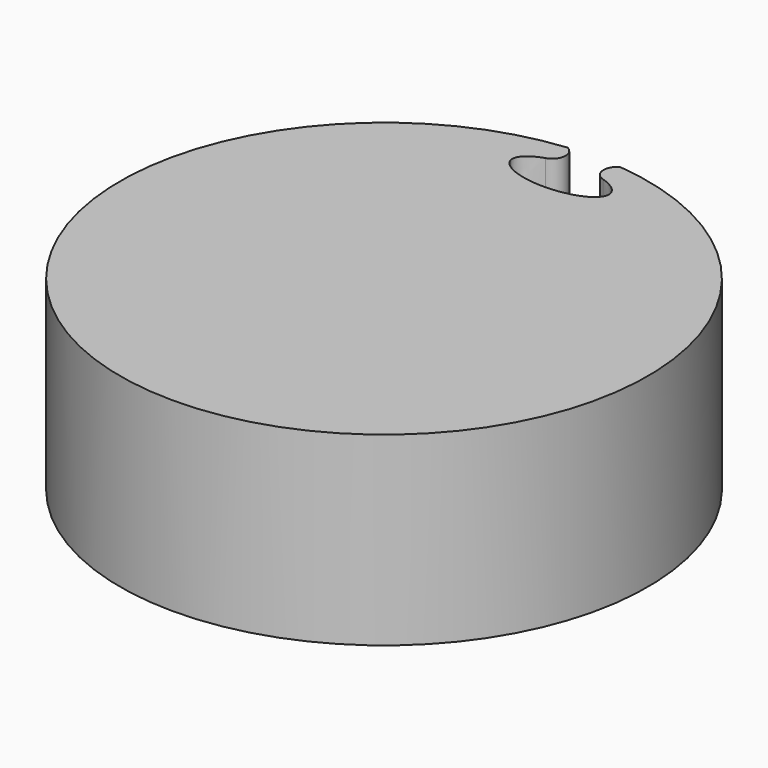
from build123d import *

# Parameters (mm, degrees)
F1_DEPTH = 53.594


with BuildPart() as f1:
    # F0 (on Top) → F1 (new body)
    with BuildSketch(Plane.XY):
        with BuildLine():
            ThreePointArc((-8.3332061768, 68.7127187848), (-5.5084893663, 72.017640605), (-7.62, 75.8180427075))
            ThreePointArc((-7.62, 75.8180427075), (0, -76.2), (7.62, 75.8180427075))
            ThreePointArc((7.62, 75.8180427075), (5.5084893663, 72.017640605), (8.3332061769, 68.7127187848))
            add(Edge.make_bspline(
                [(-8.3332061768, 68.7127187848), (-42.0177559529, 57.5652970004), (-1e-10, 57.5652970003), (42.0177559528, 57.5652970002), (8.3332061768, 68.7127187848)],
                knots=[2.2115019329, 2.2115019329, 2.2115019329, 4.7123889804, 4.7123889804, 7.2132760279, 7.2132760279, 7.2132760279], degree=2, weights=[1, 0.3149014342, 1, 0.3149014342, 1]))
        make_face()
    extrude(amount=F1_DEPTH)


solid = f1.part
